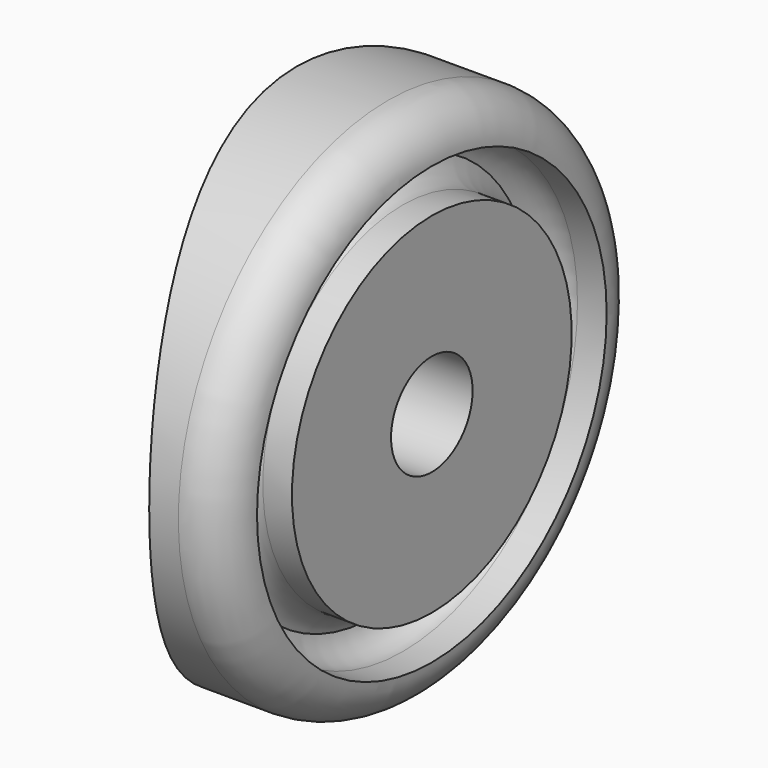
from build123d import *

# Parameters (mm, degrees)
F2_R      = 40
F3_DEPTH  = 17.5
F4_DEPTH  = 33
F4_FACE_R = 40
F5_DEPTH  = 80


with BuildPart() as f1:
    # F0 (on Front) → F1 (revolve)
    with BuildSketch(Plane.XZ):
        with BuildLine():
            ThreePointArc((5.337865, 13), (5.353806, 13.252009), (5.401373, 13.5))
            ThreePointArc((5.401373, 13.5), (5.353806, 13.747991), (5.337865, 14))
            Line((5.337865, 14), (5.337865, 13))
        make_face()
        with BuildLine():
            Line((6.337865, 18), (-29.596411, 18))
            Line((-29.596411, 18), (-29.596411, 3.5))
            Line((-29.596411, 3.5), (-15.774649, 3.5))
            Line((-15.774649, 3.5), (9.337865, 3.5))
            Line((9.337865, 3.5), (9.337865, 12))
            Line((9.337865, 12), (7.337865, 12))
            ThreePointArc((7.337865, 12), (6.11312, 12.418861), (5.401373, 13.5))
            ThreePointArc((5.401373, 13.5), (6.11312, 14.581139), (7.337865, 15))
            Line((7.337865, 15), (9.337865, 15))
            ThreePointArc((9.337865, 15), (8.459185, 17.12132), (6.337865, 18))
        make_face()
        with BuildLine():
            ThreePointArc((5.337865, 14), (5.353806, 13.747991), (5.401373, 13.5))
            ThreePointArc((5.401373, 13.5), (5.353806, 13.252009), (5.337865, 13))
            Line((5.337865, 13), (5.337865, 14))
        make_face(mode=Mode.SUBTRACT)
        with BuildLine():
            ThreePointArc((5.337865, 13), (5.353806, 13.252009), (5.401373, 13.5))
            ThreePointArc((5.401373, 13.5), (5.353806, 13.747991), (5.337865, 14))
            Line((5.337865, 14), (5.337865, 13))
        make_face()
    revolve(axis=Axis((-3.107623, 0, 0), (1, 0, 0)))

    # F2 (on Front) → F3 (cut, symmetric)
    with BuildSketch(Plane.XZ):
        with Locations((-35.662135, 0)):
            Circle(F2_R)
    extrude(amount=F3_DEPTH, both=True, mode=Mode.SUBTRACT)

    # F2 (on Front) → F4 (join, symmetric)
    with BuildSketch(Plane.XZ):
        with Locations((-35.662135, 0)):
            Circle(F2_R)
    extrude(amount=F4_DEPTH, both=True)

    # F4_face (on face) → F5 (cut)
    with BuildSketch(Plane(origin=(-35.662135, -33, 0), x_dir=(1, 0, 0), z_dir=(0, -1, 0))):
        Circle(F4_FACE_R)
    extrude(amount=-F5_DEPTH, mode=Mode.SUBTRACT)


solid = f1.part
